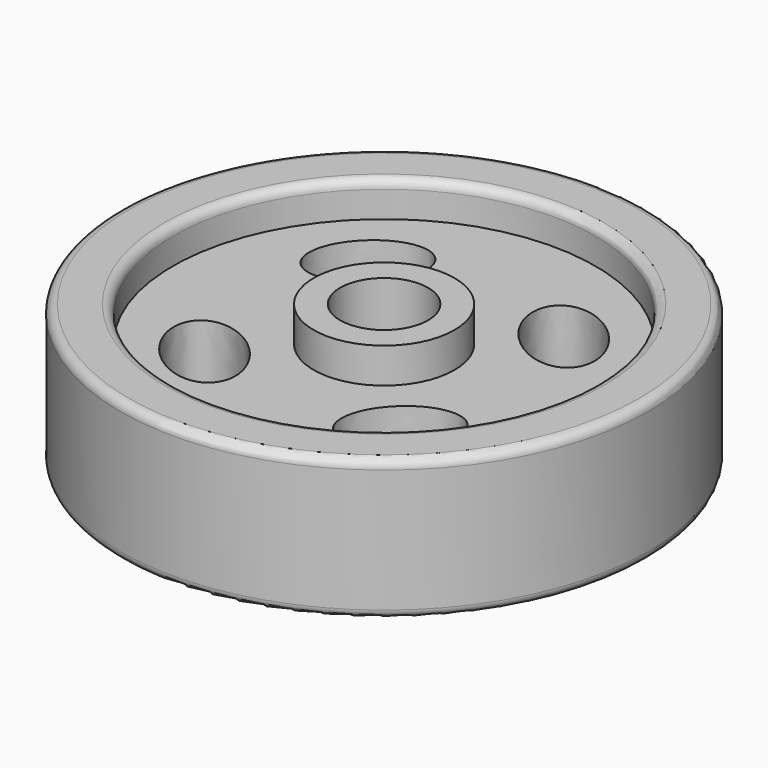
from build123d import *

# Parameters (mm, degrees)
F3_DEPTH = 6.001
F5_D     = 5
F6_R     = 0.5


with BuildPart() as f1:
    # F0 (on Front) → F1 (revolve)
    with BuildSketch(Plane.XZ):
        Polygon((0, 8), (0, 0), (4, 0), (4, 2), (12, 2), (12, 0), (15, 0), (15, 8), (12, 8), (12, 6), (4, 6), (4, 8), align=None)
    revolve(axis=Axis((0, 0, 4), (0, 0, -1)))

    # F2 (on face) → F3 (cut, through all)
    with BuildSketch(Plane.XY.offset(6)):
        with BuildLine():
            add(Edge.make_bspline(
                [(-3.39345, 7.87072), (-5.815595, 10.347252), (-7.821632, 5.962527), (-9.827669, 1.577801), (-5.399486, 3.485995), (-0.971304, 5.394188), (-3.39345, 7.87072)],
                knots=[0, 0, 0, 2.094395, 2.094395, 4.18879, 4.18879, 6.283185, 6.283185, 6.283185], degree=2, weights=[1, 0.5, 1, 0.5, 1, 0.5, 1]))
        make_face()
        with BuildLine():
            add(Edge.make_bspline(
                [(-7.87072, -3.39345), (-10.347252, -5.815595), (-5.962527, -7.821632), (-1.577801, -9.827669), (-3.485995, -5.399486), (-5.394188, -0.971304), (-7.87072, -3.39345)],
                knots=[0, 0, 0, 2.094395, 2.094395, 4.18879, 4.18879, 6.283185, 6.283185, 6.283185], degree=2, weights=[1, 0.5, 1, 0.5, 1, 0.5, 1]))
        make_face()
        with BuildLine():
            add(Edge.make_bspline(
                [(3.39345, -7.87072), (5.815595, -10.347252), (7.821632, -5.962527), (9.827669, -1.577801), (5.399486, -3.485995), (0.971304, -5.394188), (3.39345, -7.87072)],
                knots=[0, 0, 0, 2.094395, 2.094395, 4.18879, 4.18879, 6.283185, 6.283185, 6.283185], degree=2, weights=[1, 0.5, 1, 0.5, 1, 0.5, 1]))
        make_face()
        with BuildLine():
            add(Edge.make_bspline(
                [(4.329773, 4.153606), (6.431654, 1.985987), (7.87072, 3.39345)],
                knots=[4.705948, 4.705948, 4.705948, 6.283185, 6.283185, 6.283185], degree=2, weights=[1, 0.704826, 1]))
            add(Edge.make_bspline(
                [(7.87072, 3.39345), (11.306966, 6.754233), (5.308901, 8.041874), (-0.689164, 9.329514), (4.329773, 4.153606)],
                knots=[0, 0, 0, 2.352974, 2.352974, 4.705948, 4.705948, 4.705948], degree=2, weights=[1, 0.384171, 1, 0.384171, 1]))
        make_face()
    extrude(amount=-F3_DEPTH, mode=Mode.SUBTRACT)

    # F5 (through all)
    with Locations(Plane.XY.offset(8)):
        with Locations((0, 0)):
            Hole(F5_D / 2)

    # F6
    f6_edges = [f1.edges().sort_by_distance(p)[0] for p in [
        (-15, 0, 8),
        (-15, 0, 0),
        (-12, 0, 8),
        (-12, 0, 0),
    ]]
    fillet(f6_edges, radius=F6_R)


solid = f1.part
